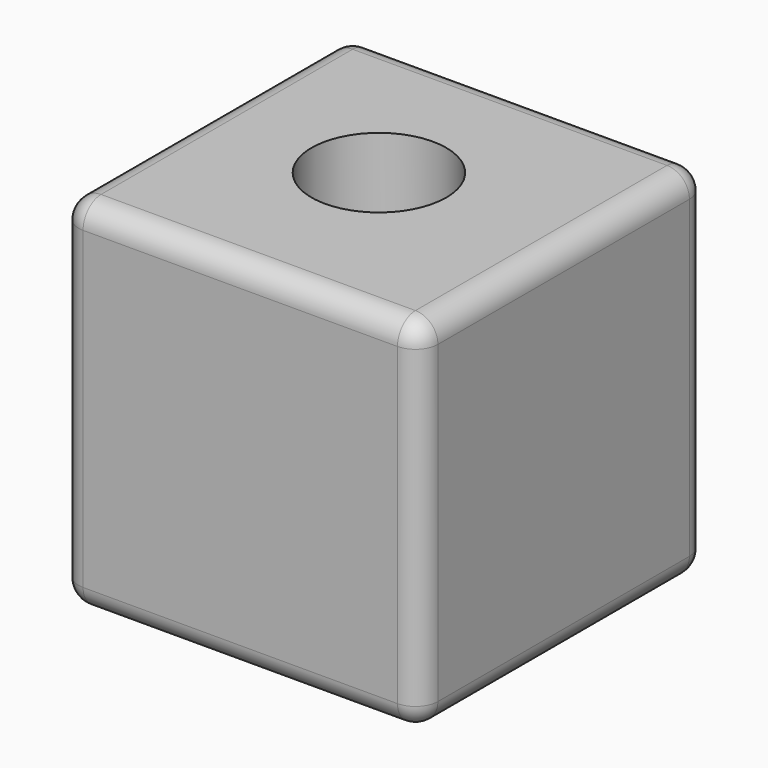
from build123d import *

# Parameters (mm, degrees)
F0_W     = 80
F0_H     = 80
F1_DEPTH = 40
F2_R     = 15
F3_DEPTH = 80.001
F4_R     = 5


with BuildPart() as f1:
    # F0 (on Top) → F1 (new body, symmetric)
    with BuildSketch(Plane.XY):
        with Locations((8.347585, 10.439654)):
            Rectangle(F0_W, F0_H)
    extrude(amount=F1_DEPTH, both=True)

    # F2 (on face) → F3 (cut, through all)
    with BuildSketch(Plane.XY.offset(40)):
        with Locations((5.948277, 12.025863)):
            Circle(F2_R)
    extrude(amount=-F3_DEPTH, mode=Mode.SUBTRACT)

    # F4
    f4_edges = [f1.edges().sort_by_distance(p)[0] for p in [
        (8.347585, 50.439654, -40),
        (48.347585, 10.439654, -40),
        (-31.652415, 10.439654, -40),
        (8.347585, -29.560346, -40),
        (48.347585, 50.439654, 0),
        (48.347585, 10.439654, 40),
        (48.347585, -29.560346, 0),
        (-31.652415, 50.439654, 0),
        (8.347585, 50.439654, 40),
        (-31.652415, 10.439654, 40),
        (-31.652415, -29.560346, 0),
        (8.347585, -29.560346, 40),
    ]]
    fillet(f4_edges, radius=F4_R)


solid = f1.part
